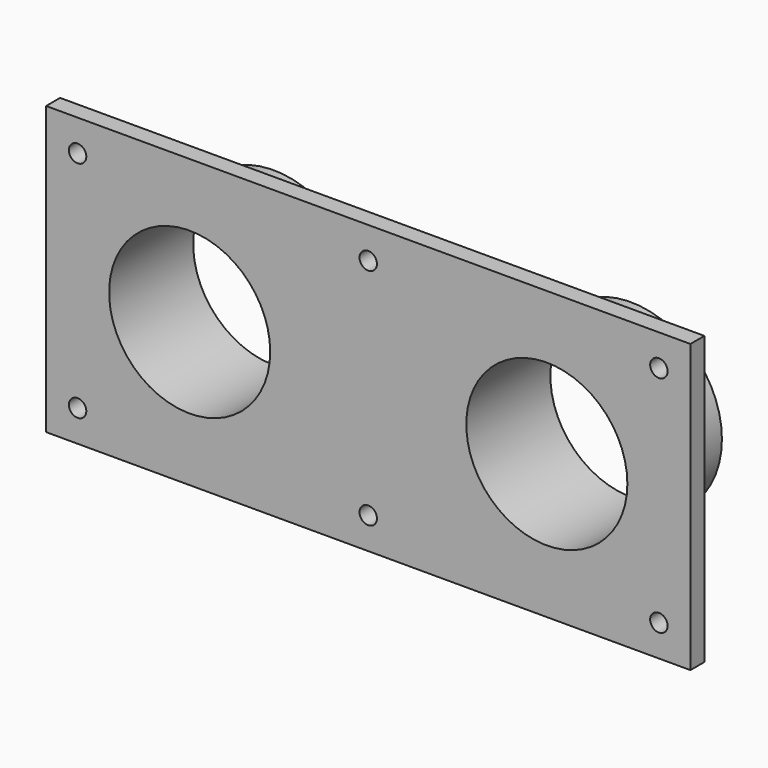
from build123d import *

# Parameters (mm, degrees)
F0_W     = 184
F0_H     = 82
F0_R     = 26
F1_DEPTH = 5
F0_R_2   = 23
F2_DEPTH = 25
F3_DEPTH = 5
F5_D     = 4.9784


with BuildPart() as f1:
    # F0 (on Front) → F1 (new body)
    with BuildSketch(Plane.XZ):
        Rectangle(F0_W, F0_H)
        with Locations((-51, 0)):
            Circle(F0_R, mode=Mode.SUBTRACT)
        with Locations((51, 0)):
            Circle(F0_R, mode=Mode.SUBTRACT)
    extrude(amount=F1_DEPTH)

    # F0 (on Front) → F2 (join)
    with BuildSketch(Plane.XZ):
        with Locations((-51, 0)):
            Circle(F0_R)
        with Locations((-51, 0)):
            Circle(F0_R_2, mode=Mode.SUBTRACT)
        with Locations((51, 0)):
            Circle(F0_R)
        with Locations((51, 0)):
            Circle(F0_R_2, mode=Mode.SUBTRACT)
    extrude(amount=-F2_DEPTH)

    # F0 (on Front) → F3 (join)
    with BuildSketch(Plane.XZ):
        with Locations((-51, 0)):
            Circle(F0_R)
        with Locations((-51, 0)):
            Circle(F0_R_2, mode=Mode.SUBTRACT)
        with Locations((51, 0)):
            Circle(F0_R)
        with Locations((51, 0)):
            Circle(F0_R_2, mode=Mode.SUBTRACT)
    extrude(amount=F3_DEPTH)

    # F5 (through all)
    with Locations(Plane(origin=(0, 0, 0), x_dir=(1, 0, 0), z_dir=(0, 1, 0))):
        with Locations((-83, -32), (0, -32), (83, -32), (83, 32), (0, 32), (-83, 32)):
            Hole(F5_D / 2)


solid = f1.part
